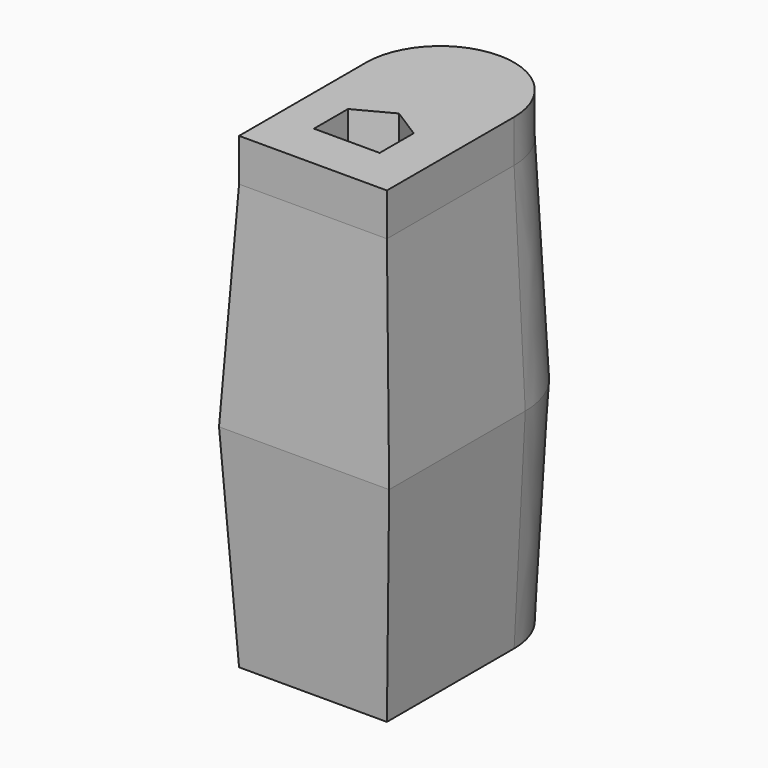
from build123d import *

# Parameters (mm, degrees)
F1_DEPTH = 127
F1_TAPER = 3
F3_DEPTH = 25.4


with BuildPart() as f1:
    # F0 (on Top) → F1 (new body, symmetric)
    with BuildSketch(Plane.XY):
        with BuildLine():
            Line((-50.8, -50.8), (50.8, -50.8))
            Line((50.8, -50.8), (50.8, 50.8))
            ThreePointArc((50.8, 50.8), (0, 101.6), (-50.8, 50.8))
            Line((-50.8, 50.8), (-50.8, -50.8))
        make_face()
    extrude(amount=F1_DEPTH, both=True, taper=F1_TAPER)

    # F2 (on face) → F3 (join)
    with BuildSketch(Plane.XY.offset(127)):
        with BuildLine():
            ThreePointArc((44.1442120311, 50.8), (0, 94.9442120311), (-44.1442120311, 50.8))
            Line((-44.1442120311, 50.8), (-44.1442120311, -44.1442120311))
            Line((-44.1442120311, -44.1442120311), (44.1442120311, -44.1442120311))
            Line((44.1442120311, -44.1442120311), (44.1442120311, 50.8))
        make_face()
        Polygon((-21.4192807622, -16.6554342237), (-21.4192807622, 8.7445657763), (0, 20.0903888761), (17.8153019142, 8.7445657763), (17.8153019142, -16.6554342237), align=None, mode=Mode.SUBTRACT)
    extrude(amount=F3_DEPTH)


solid = f1.part
